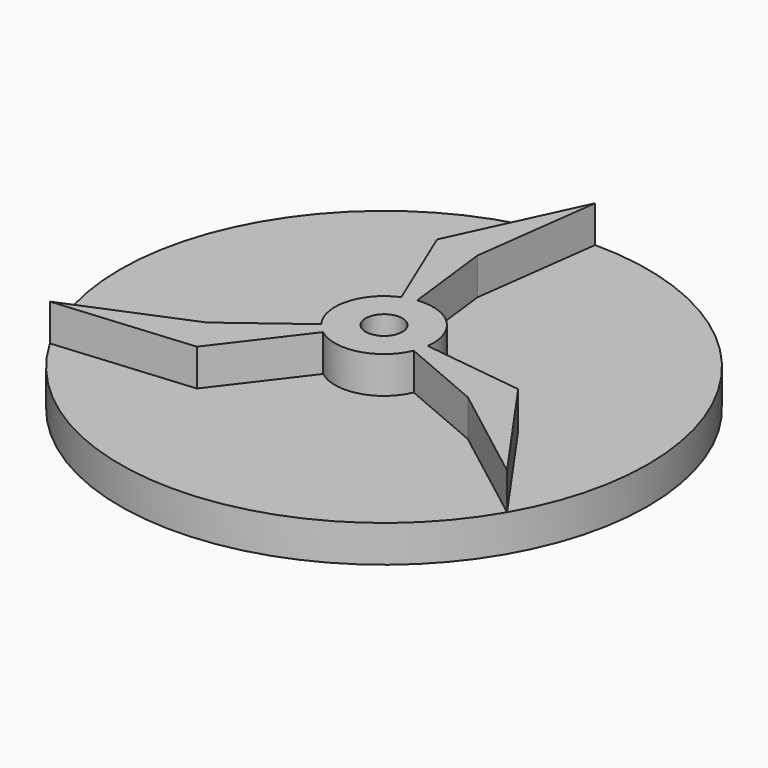
from build123d import *

# Parameters (mm, degrees)
F0_R     = 21.5
F1_DEPTH = 3
F2_R     = 1
F3_DEPTH = 3
F4_D     = 3


with BuildPart() as f1:
    # F0 (on Top) → F1 (new body)
    with BuildSketch(Plane.XY):
        Circle(F0_R)
    extrude(amount=F1_DEPTH)

    # F2 (on face) → F3 (join)
    with BuildSketch(Plane.XY.offset(3)):
        with BuildLine():
            Line((-1.347391, 11.193886), (0, 21.5))
            Line((0, 21.5), (-4.736634, 11.324242))
            Line((-4.736634, 11.324242), (-1.543514, 3.690199))
            ThreePointArc((-1.543514, 3.690199), (-3.859717, 1.050041), (-3.200264, -2.399647))
            Line((-3.200264, -2.399647), (-9.020494, -6.763818))
            Line((-9.020494, -6.763818), (-18.619546, -10.75))
            Line((-18.619546, -10.75), (-7.438764, -9.764166))
            Line((-7.438764, -9.764166), (-2.424049, -3.181821))
            ThreePointArc((-2.424049, -3.181821), (1.020496, -3.867633), (3.678288, -1.571687))
            Line((3.678288, -1.571687), (10.367886, -4.430068))
            Line((10.367886, -4.430068), (18.619546, -10.75))
            Line((18.619546, -10.75), (12.175398, -1.560076))
            Line((12.175398, -1.560076), (3.967563, -0.508377))
            ThreePointArc((3.967563, -0.508377), (2.839221, 2.817592), (-0.478023, 3.971334))
            Line((-0.478023, 3.971334), (-1.347391, 11.193886))
        make_face()
        Circle(F2_R, mode=Mode.SUBTRACT)
    extrude(amount=F3_DEPTH)

    # F4 (through all)
    with Locations(Plane(origin=(0, 0, 0), x_dir=(1, 0, 0), z_dir=(0, 0, -1))):
        with Locations((0, 0)):
            Hole(F4_D / 2)


solid = f1.part
